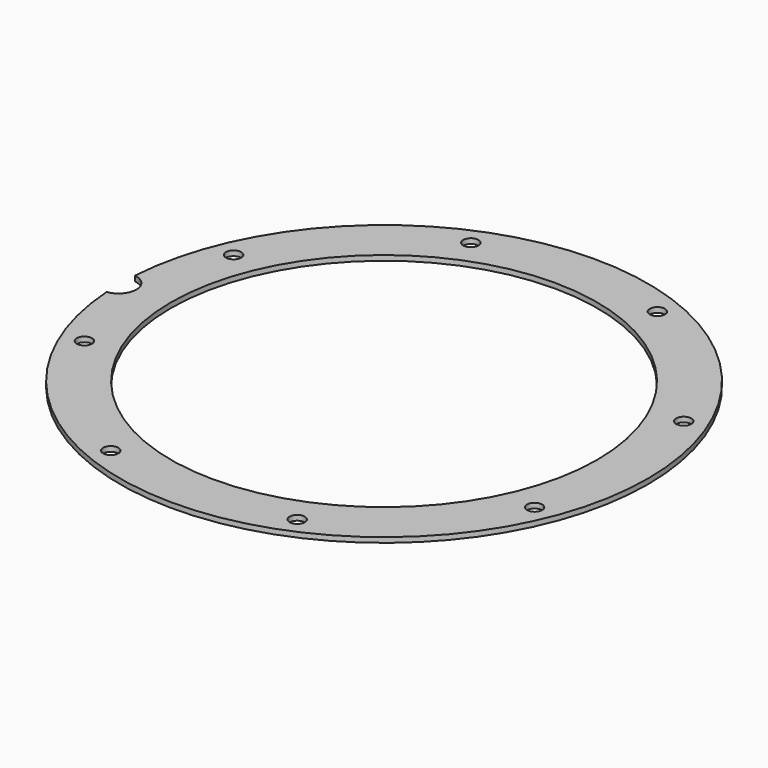
from build123d import *

# Parameters (mm, degrees)
CYLINDER345_R               = 3.5
CYLINDER345_DEPTH           = 20
CYLINDER339_R               = 1.5
CYLINDER339_DEPTH           = 10
CYLINDER339_PLACEMENT_ANGLE = 67.5
CYLINDER340_R               = 1.5
CYLINDER340_DEPTH           = 10
CYLINDER340_PLACEMENT_ANGLE = 112.5
CYLINDER343_R               = 1.5
CYLINDER343_DEPTH           = 10
CYLINDER343_PLACEMENT_ANGLE = 157.5
CYLINDER341_R               = 1.5
CYLINDER341_DEPTH           = 10
CYLINDER341_PLACEMENT_ANGLE = 202.5
CYLINDER338_R               = 1.5
CYLINDER338_DEPTH           = 10
CYLINDER338_PLACEMENT_ANGLE = 112.500002
CYLINDER344_R               = 1.5
CYLINDER344_DEPTH           = 10
CYLINDER344_PLACEMENT_ANGLE = 67.5
CYLINDER342_R               = 1.5
CYLINDER342_DEPTH           = 10
CYLINDER342_PLACEMENT_ANGLE = 22.5
CYLINDER337_R               = 1.5
CYLINDER337_DEPTH           = 10
CYLINDER337_PLACEMENT_ANGLE = 22.5
TUBE033_R                   = 52
TUBE033_R_2                 = 42
TUBE033_DEPTH               = 1


with BuildPart() as obj1:
    # Cylinder345 → Cylinder345 (new body)
    with BuildSketch(Plane(origin=(-52.3, 0, 29), x_dir=(1, 0, 0), z_dir=(0, 0, 1))):
        Circle(CYLINDER345_R)
    extrude(amount=CYLINDER345_DEPTH)


with BuildPart() as obj2:
    # Cylinder339 → Cylinder339 (new body)
    with BuildSketch(Plane.XY):
        Circle(CYLINDER339_R)
    extrude(amount=CYLINDER339_DEPTH)


with BuildPart() as obj2_1:
    # Cylinder339 placement: moved
    add(obj2.part.moved(Location((44.346218, -18.368805, 35.5))).rotate(Axis((44.346218, -18.368805, 35.5), (0, 0, 1)), CYLINDER339_PLACEMENT_ANGLE))


with BuildPart() as obj3:
    # Cylinder340 → Cylinder340 (new body)
    with BuildSketch(Plane.XY):
        Circle(CYLINDER340_R)
    extrude(amount=CYLINDER340_DEPTH)


with BuildPart() as obj3_1:
    # Cylinder340 placement: moved
    add(obj3.part.moved(Location((44.346218, 18.368805, 35.5))).rotate(Axis((44.346218, 18.368805, 35.5), (0, 0, 1)), CYLINDER340_PLACEMENT_ANGLE))


with BuildPart() as obj4:
    # Cylinder343 → Cylinder343 (new body)
    with BuildSketch(Plane.XY):
        Circle(CYLINDER343_R)
    extrude(amount=CYLINDER343_DEPTH)


with BuildPart() as obj4_1:
    # Cylinder343 placement: moved
    add(obj4.part.moved(Location((18.368805, 44.346218, 35.5))).rotate(Axis((18.368805, 44.346218, 35.5), (0, 0, 1)), CYLINDER343_PLACEMENT_ANGLE))


with BuildPart() as obj5:
    # Cylinder341 → Cylinder341 (new body)
    with BuildSketch(Plane.XY):
        Circle(CYLINDER341_R)
    extrude(amount=CYLINDER341_DEPTH)


with BuildPart() as obj5_1:
    # Cylinder341 placement: moved
    add(obj5.part.moved(Location((-18.368805, 44.346218, 35.5))).rotate(Axis((-18.368805, 44.346218, 35.5), (0, 0, 1)), CYLINDER341_PLACEMENT_ANGLE))


with BuildPart() as obj6:
    # Cylinder338 → Cylinder338 (new body)
    with BuildSketch(Plane.XY):
        Circle(CYLINDER338_R)
    extrude(amount=CYLINDER338_DEPTH)


with BuildPart() as obj6_1:
    # Cylinder338 placement: moved
    add(obj6.part.moved(Location((-44.346218, 18.368805, 35.5))).rotate(Axis((-44.346218, 18.368805, 35.5), (0, 0, -1)), CYLINDER338_PLACEMENT_ANGLE))


with BuildPart() as obj7:
    # Cylinder344 → Cylinder344 (new body)
    with BuildSketch(Plane.XY):
        Circle(CYLINDER344_R)
    extrude(amount=CYLINDER344_DEPTH)


with BuildPart() as obj7_1:
    # Cylinder344 placement: moved
    add(obj7.part.moved(Location((-44.346218, -18.368805, 35.5))).rotate(Axis((-44.346218, -18.368805, 35.5), (0, 0, -1)), CYLINDER344_PLACEMENT_ANGLE))


with BuildPart() as obj8:
    # Cylinder342 → Cylinder342 (new body)
    with BuildSketch(Plane.XY):
        Circle(CYLINDER342_R)
    extrude(amount=CYLINDER342_DEPTH)


with BuildPart() as obj8_1:
    # Cylinder342 placement: moved
    add(obj8.part.moved(Location((-18.368805, -44.346218, 35.5))).rotate(Axis((-18.368805, -44.346218, 35.5), (0, 0, -1)), CYLINDER342_PLACEMENT_ANGLE))


with BuildPart() as compound286:
    # Cylinder337 → Cylinder337 (new body)
    with BuildSketch(Plane.XY):
        Circle(CYLINDER337_R)
    extrude(amount=CYLINDER337_DEPTH)


with BuildPart() as compound286_1:
    # Cylinder337 placement: moved
    add(compound286.part.moved(Location((18.368805, -44.346218, 35.5))).rotate(Axis((18.368805, -44.346218, 35.5), (0, 0, 1)), CYLINDER337_PLACEMENT_ANGLE))

    # Compound286: union obj2, obj3, obj4, obj5, obj6, obj7, obj8
    add(obj2_1.part)
    add(obj3_1.part)
    add(obj4_1.part)
    add(obj5_1.part)
    add(obj6_1.part)
    add(obj7_1.part)
    add(obj8_1.part)


with BuildPart() as cut143:
    # Tube033 → Tube033 (new body)
    with BuildSketch(Plane.XY.offset(37)):
        Circle(TUBE033_R)
        Circle(TUBE033_R_2, mode=Mode.SUBTRACT)
    extrude(amount=TUBE033_DEPTH)

    # Cut142: cut Compound286
    add(compound286_1.part, mode=Mode.SUBTRACT)

    # Cut143: cut obj1
    add(obj1.part, mode=Mode.SUBTRACT)


solid = cut143.part
